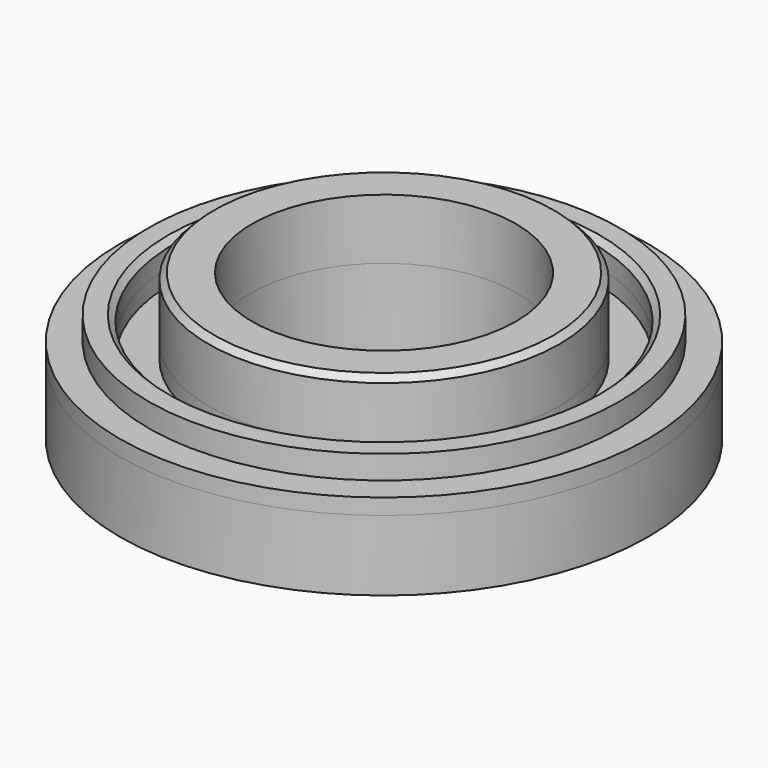
from build123d import *

# Parameters (mm, degrees)
F0_R          = 29.9
F3_DEPTH      = 6.7
F0_R_2        = 40.1
F0_R_3        = 35.75
F1_R          = 45
F4_DEPTH      = 12
F4_DEPTH_BACK = 2.7
F5_DEPTH      = 6.7
F6_SIZE       = 1
F7_DEPTH      = 6.3
F8_SIZE       = 1
F2_R          = 22.5
F9_DEPTH      = 13
F9_DEPTH_BACK = 12


with BuildPart() as f3:
    # F0 (on Top) → F3 (new body)
    with BuildSketch(Plane.XY):
        Circle(F0_R)
    extrude(amount=F3_DEPTH)

    # F7 (add): a face of the model
    f7_faces = [f3.faces().sort_by_distance(p)[0] for p in [
        (0, 0, 6.7),
    ]]
    extrude(f7_faces, amount=F7_DEPTH)

    # F8
    f8_edges = [f3.edges().sort_by_distance(p)[0] for p in [
        (-29.9, 0, 13),
    ]]
    chamfer(f8_edges, length=F8_SIZE)


with BuildPart() as f3b:
    # F0 (on Top) → F3, piece 2 (new body)
    with BuildSketch(Plane.XY):
        Circle(F0_R_2)
        Circle(F0_R_3, mode=Mode.SUBTRACT)
    extrude(amount=F3_DEPTH)

    # F6
    f6_edges = [f3b.edges().sort_by_distance(p)[0] for p in [
        (-35.75, 0, 6.7),
    ]]
    chamfer(f6_edges, length=F6_SIZE)


with BuildPart() as f4:
    # F1 (on Top) → F4 (new body, two sides)
    with BuildSketch(Plane.XY) as f4_sk:
        Circle(F1_R)
    extrude(amount=-F4_DEPTH)
    extrude(f4_sk.sketch, amount=F4_DEPTH_BACK)

    # F0 (on Top) → F5 (cut)
    with BuildSketch(Plane.XY):
        Circle(F0_R_3)
        Circle(F0_R, mode=Mode.SUBTRACT)
    extrude(amount=F5_DEPTH, mode=Mode.SUBTRACT)


with BuildPart() as f9_tool:
    # F2 (on Top) → F9 (new body, two sides)
    with BuildSketch(Plane.XY) as f9_sk:
        Circle(F2_R)
    extrude(amount=F9_DEPTH)
    extrude(f9_sk.sketch, amount=-F9_DEPTH_BACK)


with BuildPart() as f3_1:
    add(f3.part)

    # F9: cut by f9_tool
    add(f9_tool.part, mode=Mode.SUBTRACT)


with BuildPart() as f4_1:
    add(f4.part)

    # F9: cut by f9_tool
    add(f9_tool.part, mode=Mode.SUBTRACT)


solid = Compound([f3b.part, f3_1.part, f4_1.part])
